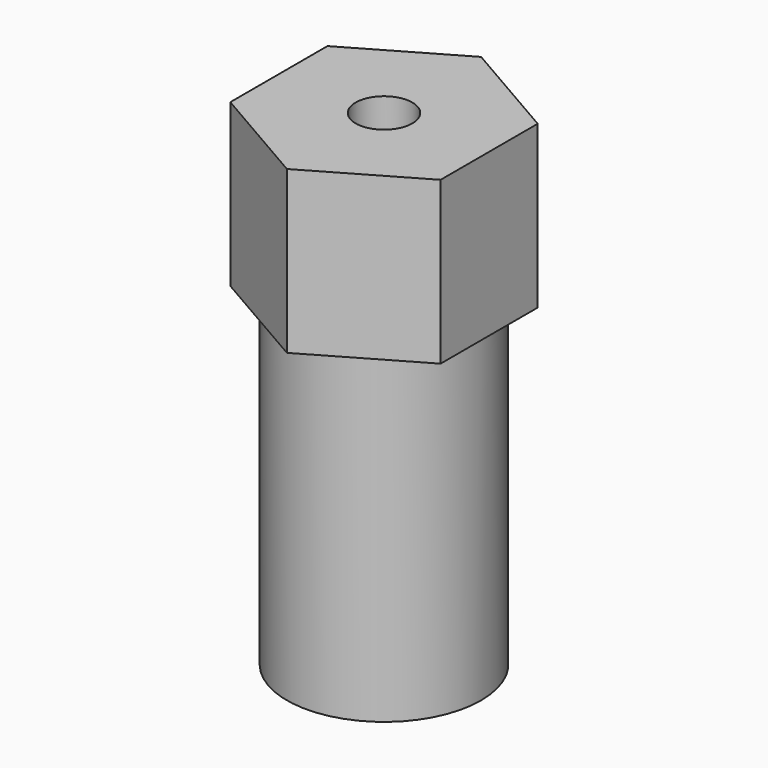
from build123d import *

# Parameters (mm, degrees)
SKETCH_R        = 6
PAD_DEPTH       = 30
PAD001_DEPTH    = 10
SKETCH002_R     = 1.75
HOLE_DEPTH      = 5
HOLE_TIPS_R     = 1.75
SKETCH003_R     = 3
POCKET_DEPTH    = 15
SKETCH004_R     = 2
POCKET001_DEPTH = 5


with BuildPart() as part:
    # Sketch → Pad (new body)
    with BuildSketch(Plane.XY):
        Circle(SKETCH_R)
    extrude(amount=PAD_DEPTH)

    # Sketch001 (on Face3 of Pad) → Pad001 (join)
    with BuildSketch(Plane.XY.offset(30)):
        Polygon((6.495191, -3.75), (6.495191, 3.75), (0, 7.5), (-6.495191, 3.75), (-6.495191, -3.75), (0, -7.5), align=None)
    extrude(amount=-PAD001_DEPTH)

    # Sketch002 (on Face11 of Pad001) → Hole (cut)
    with BuildSketch(Plane.XY.offset(30)):
        Circle(SKETCH002_R)
    extrude(amount=-HOLE_DEPTH, mode=Mode.SUBTRACT)

    # Hole tips → Hole tip 1 section 0
    with BuildSketch(Plane.XY.offset(25), mode=Mode.PRIVATE) as hole_tip_1_s0:
        Circle(HOLE_TIPS_R)
    loft([hole_tip_1_s0.sketch, Vertex(0, 0, 23.948494)], mode=Mode.SUBTRACT)

    # Sketch003 (on Face2 of Hole) → Pocket (cut)
    with BuildSketch(Plane(origin=(0, 0, 0), x_dir=(1, 0, 0), z_dir=(0, 0, -1))):
        Circle(SKETCH003_R)
    extrude(amount=-POCKET_DEPTH, mode=Mode.SUBTRACT)

    # Sketch004 (on DatumPlane) → Pocket001 (cut)
    with BuildSketch(Plane(origin=(0, 6, 10), x_dir=(1, 0, 0), z_dir=(0, -1, 0))):
        with Locations((0, -5)):
            Circle(SKETCH004_R)
    extrude(amount=POCKET001_DEPTH, mode=Mode.SUBTRACT)


solid = part.part
